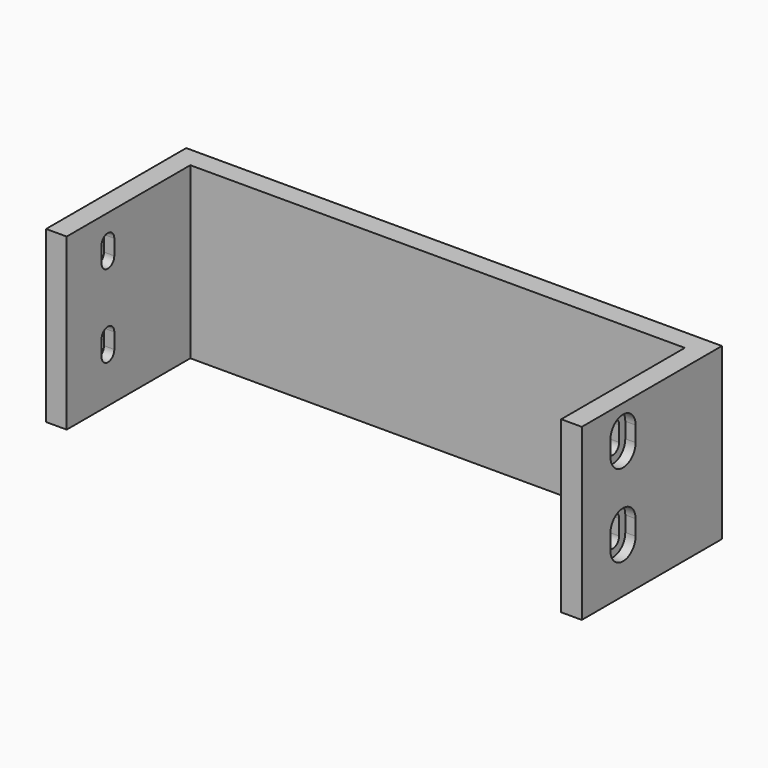
from build123d import *

# Parameters (mm, degrees)
SKETCH_W        = 104
SKETCH_H        = 34
PAD_DEPTH       = 33
SKETCH001_W     = 96
SKETCH001_H     = 30
POCKET_DEPTH    = 33.001
POCKET001_DEPTH = 104.001
POCKET002_DEPTH = 2
POCKET003_DEPTH = 2


with BuildPart() as part:
    # Sketch → Pad (new body)
    with BuildSketch(Plane.XY):
        with Locations((0, 17)):
            Rectangle(SKETCH_W, SKETCH_H)
    extrude(amount=PAD_DEPTH)

    # Sketch001 (on Face6 of Pad) → Pocket (cut, through all)
    with BuildSketch(Plane.XY.offset(33)):
        with Locations((0, 15)):
            Rectangle(SKETCH001_W, SKETCH001_H)
    extrude(amount=-POCKET_DEPTH, mode=Mode.SUBTRACT)

    # Sketch002 (on Face7 of Pocket) → Pocket001 (cut, through all)
    with BuildSketch(Plane.YZ.offset(52)):
        with BuildLine():
            ThreePointArc((11.55, 28), (10, 29.55), (8.45, 28))
            Line((8.45, 28), (8.45, 25))
            ThreePointArc((8.45, 25), (10, 23.45), (11.55, 25))
            Line((11.55, 25), (11.55, 28))
        make_face()
        with BuildLine():
            ThreePointArc((11.55, 12), (10, 13.55), (8.45, 12))
            Line((8.45, 12), (8.45, 9))
            ThreePointArc((8.45, 9), (10, 7.45), (11.55, 9))
            Line((11.55, 9), (11.55, 12))
        make_face()
    extrude(amount=-POCKET001_DEPTH, mode=Mode.SUBTRACT)

    # Sketch003 (on Face7 of Pocket001) → Pocket002 (cut)
    with BuildSketch(Plane.YZ.offset(52)):
        with BuildLine():
            ThreePointArc((13.05, 28), (10, 31.05), (6.95, 28))
            Line((6.95, 28), (6.95, 25))
            ThreePointArc((6.95, 25), (10, 21.95), (13.05, 25))
            Line((13.05, 25), (13.05, 28))
        make_face()
        with BuildLine():
            ThreePointArc((13.05, 12), (10, 15.05), (6.95, 12))
            Line((6.95, 12), (6.95, 9))
            ThreePointArc((6.95, 9), (10, 5.95), (13.05, 9))
            Line((13.05, 9), (13.05, 12))
        make_face()
    extrude(amount=-POCKET002_DEPTH, mode=Mode.SUBTRACT)

    # Sketch004 (on Face5 of Pocket002) → Pocket003 (cut)
    with BuildSketch(Plane(origin=(-52, 0, 0), x_dir=(0, -1, 0), z_dir=(-1, 0, 0))):
        with BuildLine():
            ThreePointArc((-6.95, 28), (-10, 31.05), (-13.05, 28))
            Line((-13.05, 28), (-13.05, 25))
            ThreePointArc((-13.05, 25), (-10, 21.95), (-6.95, 25))
            Line((-6.95, 25), (-6.95, 28))
        make_face()
        with BuildLine():
            ThreePointArc((-6.95, 12), (-10, 15.05), (-13.05, 12))
            Line((-13.05, 12), (-13.05, 9))
            ThreePointArc((-13.05, 9), (-10, 5.95), (-6.95, 9))
            Line((-6.95, 9), (-6.95, 12))
        make_face()
    extrude(amount=-POCKET003_DEPTH, mode=Mode.SUBTRACT)


solid = part.part
